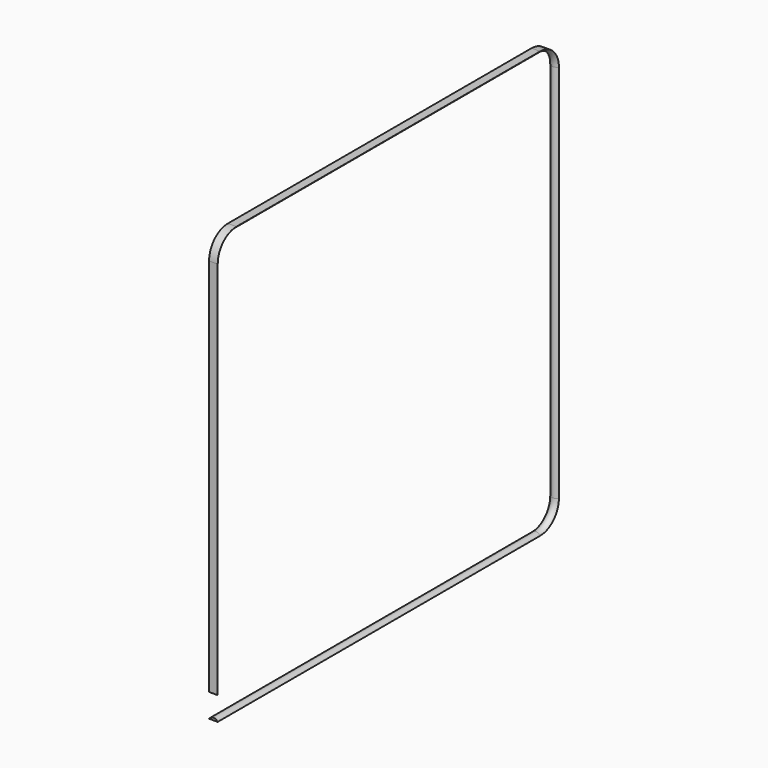
from build123d import *


with BuildPart() as f2:
    # F2: sweep along a path in F1
    with BuildLine(Plane.YZ) as f2_path:
        Line((0, 0), (516, 0))
        ThreePointArc((516, 0), (537.213203, 8.786797), (546, 30))
        Line((546, 30), (546, 516))
        ThreePointArc((546, 516), (537.213203, 537.213203), (516, 546))
        Line((516, 546), (30, 546))
        ThreePointArc((30, 546), (8.786797, 537.213203), (0, 516))
        Line((0, 516), (0, 30.155301))
    # F0 (on Front) → F2 (sweep)
    with BuildSketch(Plane.XZ):
        with BuildLine():
            ThreePointArc((5.5, 0), (0, 3), (-5.5, 0))
            Line((-5.5, 0), (5.5, 0))
        make_face()
    sweep(path=f2_path.line)


solid = f2.part
